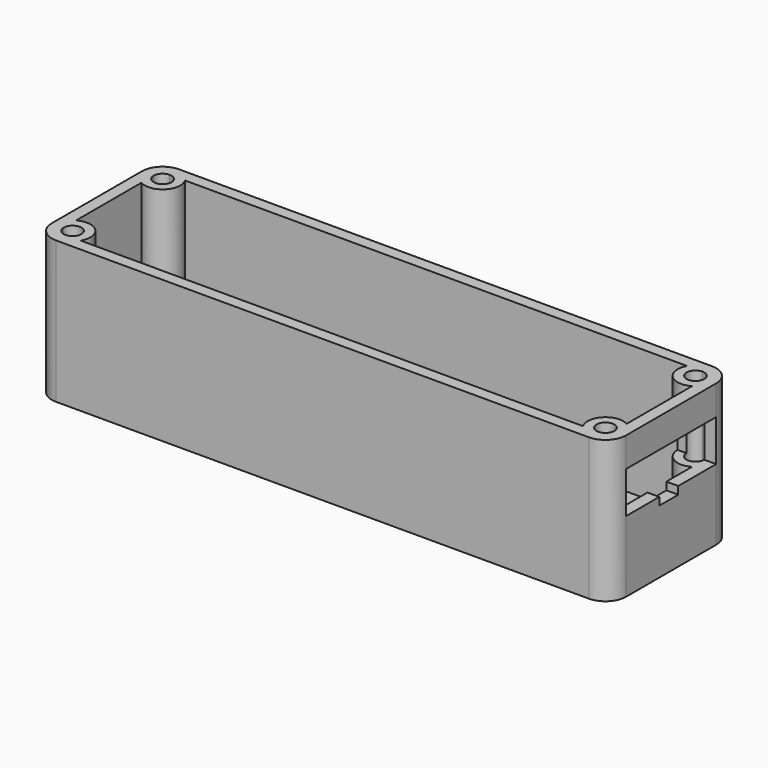
from build123d import *

# Parameters (mm, degrees)
F1_DEPTH = 24
F2_T     = -2
F3_R     = 8.25
F4_DEPTH = 2
F5_R     = 3
F5_R_2   = 1.5000011027
F6_DEPTH = 22
F8_DEPTH = 10


with BuildPart() as f1:
    # F0 (on Top) → F1 (new body)
    with BuildSketch(Plane.XY):
        with BuildLine():
            ThreePointArc((48.5, 9.5), (47.4748737342, 11.9748737342), (45, 13))
            Line((45, 13), (-45, 13))
            ThreePointArc((-45, 13), (-47.4748737342, 11.9748737342), (-48.5, 9.5))
            Line((-48.5, 9.5), (-48.5, -9.5))
            ThreePointArc((-48.5, -9.5), (-47.4748737342, -11.9748737342), (-45, -13))
            Line((-45, -13), (45, -13))
            ThreePointArc((45, -13), (47.4748737342, -11.9748737342), (48.5, -9.5))
            Line((48.5, -9.5), (48.5, 9.5))
        make_face()
    extrude(amount=F1_DEPTH)

    # F2
    f2_openings = [f1.faces().sort_by_distance(p)[0] for p in [
        (0, 0, 24),
    ]]
    offset(amount=F2_T, openings=f2_openings)

    # F3 (on face) → F4 (cut, through all)
    with BuildSketch(Plane(origin=(0, 0, 0), x_dir=(1, 0, 0), z_dir=(0, 0, -1))):
        with Locations((13.5, -2.15)):
            Circle(F3_R)
    extrude(amount=-F4_DEPTH, mode=Mode.SUBTRACT)

    # F5 (on face) → F6 (join, through all)
    with BuildSketch(Plane.XY.offset(2)):
        with Locations((-45, 9.5)):
            Circle(F5_R)
        with Locations((-45, 9.5)):
            Circle(F5_R_2, mode=Mode.SUBTRACT)
        with Locations((45, 9.5)):
            Circle(F5_R)
        with Locations((45, 9.5)):
            Circle(F5_R_2, mode=Mode.SUBTRACT)
        with Locations((-45, -9.5)):
            Circle(F5_R)
        with Locations((-45, -9.5)):
            Circle(F5_R_2, mode=Mode.SUBTRACT)
        with Locations((45, -9.5)):
            Circle(F5_R)
        with Locations((45, -9.5)):
            Circle(F5_R_2, mode=Mode.SUBTRACT)
    extrude(amount=F6_DEPTH)

    # F7 (on face) → F8 (cut)
    with BuildSketch(Plane.YZ.offset(48.5)):
        Polygon((9.5, 19), (-9.5, 19), (-9.5, 12), (-2.5, 12), (-2.5, 10.7), (1.5, 10.7), (1.5, 12), (9.5, 12), align=None)
    extrude(amount=-F8_DEPTH, mode=Mode.SUBTRACT)


solid = f1.part
